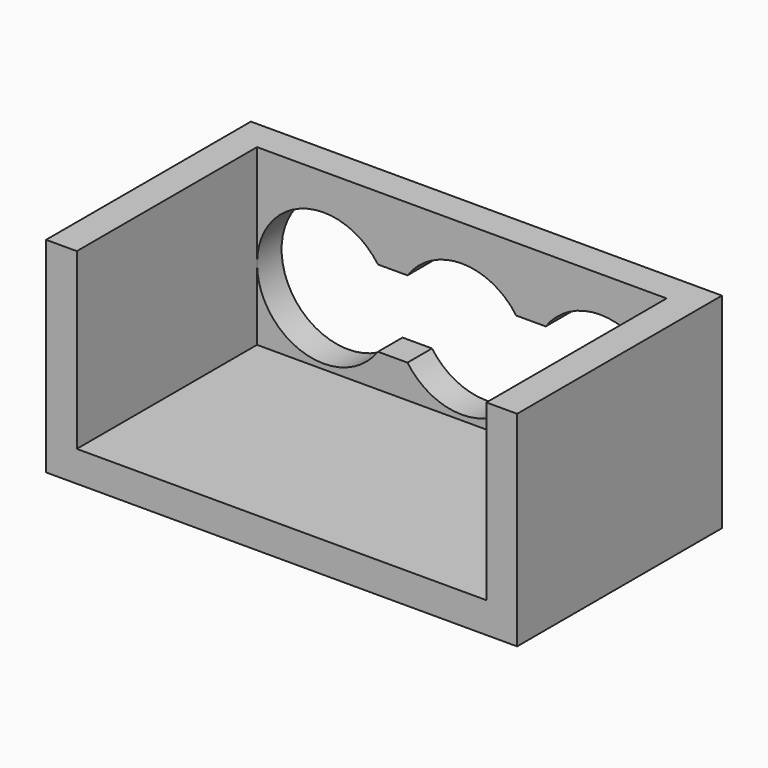
from build123d import *

# Parameters (mm, degrees)
SKETCH_W        = 18.4
SKETCH_H        = 10
PAD_DEPTH       = 8
SKETCH002_R     = 2.6
POCKET_DEPTH    = 10
SKETCH003_W     = 16
SKETCH003_H     = 8.8
POCKET001_DEPTH = 6.8
SKETCH004_W     = 10.8
SKETCH004_H     = 3
POCKET002_DEPTH = 5


with BuildPart() as part:
    # Sketch → Pad (new body)
    with BuildSketch(Plane.XY):
        Rectangle(SKETCH_W, SKETCH_H)
    extrude(amount=PAD_DEPTH)

    # Sketch002 (on Face3 of Pad) → Pocket (cut)
    with BuildSketch(Plane(origin=(0, 5, 0), x_dir=(-1, 0, 0), z_dir=(0, 1, 0))):
        with Locations((-5.4, 4)):
            Circle(SKETCH002_R)
        with Locations((0, 4)):
            Circle(SKETCH002_R)
        with Locations((5.4, 4)):
            Circle(SKETCH002_R)
    extrude(amount=-POCKET_DEPTH, mode=Mode.SUBTRACT)

    # Sketch003 (on Face4 of Pocket) → Pocket001 (cut)
    with BuildSketch(Plane.XY.offset(8)):
        with Locations((0, -0.6)):
            Rectangle(SKETCH003_W, SKETCH003_H)
    extrude(amount=-POCKET001_DEPTH, mode=Mode.SUBTRACT)

    # Sketch004 (on Face7 of Pocket001) → Pocket002 (cut)
    with BuildSketch(Plane(origin=(0, 5, 0), x_dir=(-1, 0, 0), z_dir=(0, 1, 0))):
        with Locations((0, 4)):
            Rectangle(SKETCH004_W, SKETCH004_H)
    extrude(amount=-POCKET002_DEPTH, mode=Mode.SUBTRACT)


solid = part.part
